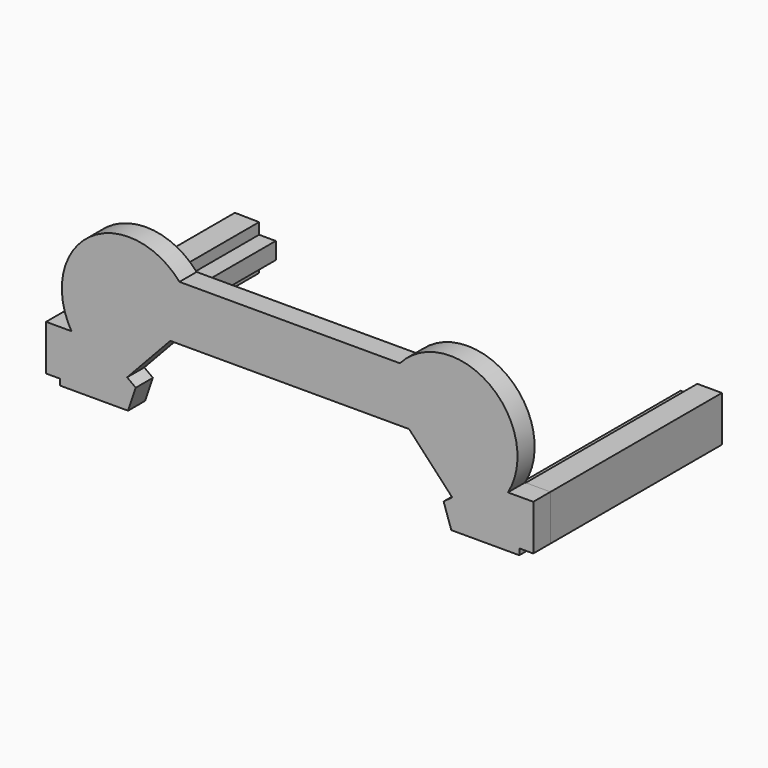
from build123d import *

# Parameters (mm, degrees)
PAD005_DEPTH    = 80
PAD006_DEPTH    = 8
PAD007_DEPTH    = 80
SKETCH011_R     = 6.937769
PAD008_DEPTH    = 1
SKETCH012_R     = 4.849298
SKETCH012_R_2   = 4.845408
PAD009_DEPTH    = 9
SKETCH013_R     = 1.431776
SKETCH013_R_2   = 1.476283
POCKET002_DEPTH = 5
PAD013_DEPTH    = 8


with BuildPart() as part:
    # Sketch008 → Pad005 (new body)
    with BuildSketch(Plane.XZ):
        Polygon((-81.828072, 16.941692), (-81.828072, 12.784613), (-75.591271, 12.784613), (-75.591271, 6.484819), (-81.863884, 6.484819), (-81.863884, 0.165597), (-90.85344, 0.165597), (-90.85344, 17.078894), align=None)
    extrude(amount=PAD005_DEPTH)

    # Sketch009 (on Face10 of Pad005) → Pad006 (join)
    with BuildSketch(Plane.XZ.offset(80)):
        with BuildLine():
            Line((-90.918877, 0), (-90.918877, 16.993577))
            Line((-90.918877, 16.993577), (-81.447352, 16.993577))
            ThreePointArc((-41.135882, 46.312654), (-74.731967, 50.132561), (-81.447352, 16.993577))
            Line((-41.135882, 46.312654), (0, 46.312654))
            Line((41.135882, 46.312654), (0, 46.312654))
            ThreePointArc((81.447352, 16.993577), (74.731967, 50.132561), (41.135882, 46.312654))
            Line((90.918877, 16.993577), (81.447352, 16.993577))
            Line((90.918877, 0), (90.918877, 16.993577))
            Line((68.692482, 0), (90.918877, 0))
            Line((44.563099, 25.81838), (68.692482, 0))
            Line((0, 25.81838), (44.563099, 25.81838))
            Line((0, 25.81838), (-44.563099, 25.81838))
            Line((-44.563099, 25.81838), (-68.692482, 0))
            Line((-68.692482, 0), (-90.918877, 0))
        make_face()
    extrude(amount=PAD006_DEPTH)

    # Sketch010 (on Face5 of Pad006) → Pad007 (join)
    with BuildSketch(Plane(origin=(0, -80, 0), x_dir=(1, 0, 0), z_dir=(0, 1, 0))):
        Polygon((81.838326, 0), (81.838326, -6.340793), (75.515793, -6.340793), (75.515793, -12.713724), (81.722115, -12.713724), (81.722115, -16.992775), (90.928337, -16.992775), (90.928337, 0), align=None)
    extrude(amount=PAD007_DEPTH)

    # Sketch011 (on Face5 of Pad007) → Pad008 (join)
    with BuildSketch(Plane(origin=(0, -80, 0), x_dir=(1, 0, 0), z_dir=(0, 1, 0))):
        with Locations((-59.983959, -30.058937)):
            Circle(SKETCH011_R)
        with Locations((59.983959, -30.058937)):
            Circle(SKETCH011_R)
    extrude(amount=PAD008_DEPTH)

    # Sketch012 (on Face39 of Pad008) → Pad009 (join)
    with BuildSketch(Plane(origin=(0, -79, 0), x_dir=(1, 0, 0), z_dir=(0, 1, 0))):
        with Locations((-60.056812, -30.004847)):
            Circle(SKETCH012_R)
        with Locations((59.971668, -30.024326)):
            Circle(SKETCH012_R_2)
    extrude(amount=PAD009_DEPTH)

    # Sketch013 (on Face43 of Pad009) → Pocket002 (cut)
    with BuildSketch(Plane(origin=(0, -70, 0), x_dir=(1, 0, 0), z_dir=(0, 1, 0))):
        with Locations((-60.000607, -29.970469)):
            Circle(SKETCH013_R)
        with Locations((60.014935, -30.002989)):
            Circle(SKETCH013_R_2)
    extrude(amount=-POCKET002_DEPTH, mode=Mode.SUBTRACT)

    # Sketch019 (on Face34 of Pocket002) → Pad013 (join)
    with BuildSketch(Plane.XZ.offset(88)):
        Polygon((-85.702133, 5.402917), (-85.702133, -2.272559), (-60.321888, -2.272559), (-57.456371, 6.221634), (-65.336533, 12.054996), align=None)
        Polygon((85.702133, 5.402917), (85.702133, -2.272559), (60.321888, -2.272559), (57.456371, 6.221634), (65.336533, 12.054996), align=None)
    extrude(amount=-PAD013_DEPTH)


with BuildPart() as part_1:
    # Body001 placement: moved
    add(part.part.moved(Location((0, -38.7, 0))))


solid = part_1.part
